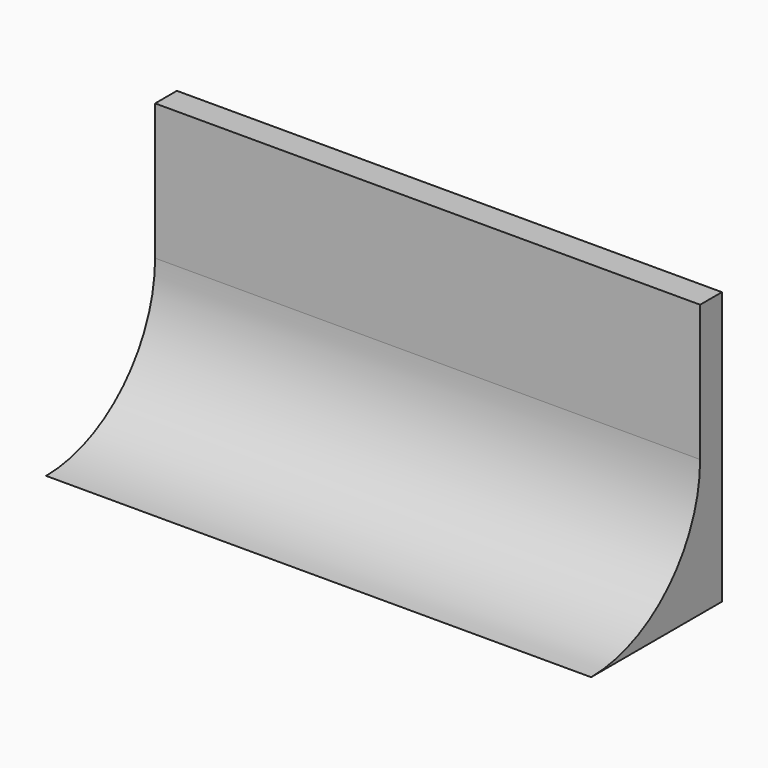
from build123d import *

# Parameters (mm, degrees)
F0_W     = 200
F0_H     = 60
F1_DEPTH = 100
F3_DEPTH = 200


with BuildPart() as f1:
    # F0 (on Top) → F1 (new body)
    with BuildSketch(Plane.XY):
        Rectangle(F0_W, F0_H)
    extrude(amount=F1_DEPTH)

    # F2 (on face) → F3 (cut)
    with BuildSketch(Plane(origin=(-100, 0, 0), x_dir=(0, -1, 0), z_dir=(-1, 0, 0))):
        with BuildLine():
            Line((30, 100), (-20, 100))
            Line((-20, 100), (-20, 50))
            ThreePointArc((-20, 50), (-5.355339, 14.644661), (30, 0))
            Line((30, 0), (30, 100))
        make_face()
    extrude(amount=-F3_DEPTH, mode=Mode.SUBTRACT)


solid = f1.part
